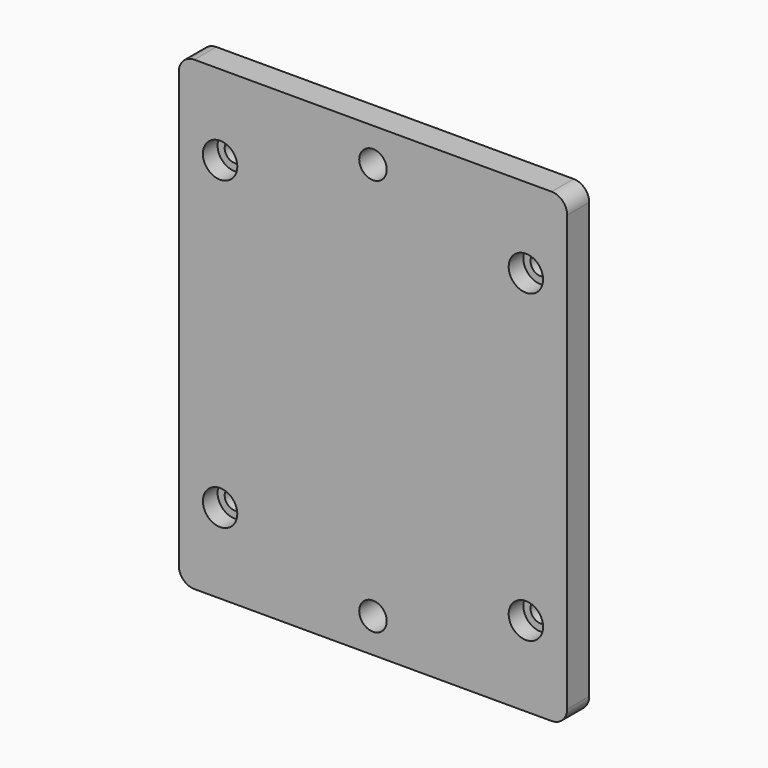
from build123d import *

# Parameters (mm, degrees)
F0_W           = 127
F0_H           = 152.4
F1_DEPTH       = 9
F3_D           = 9
F5_D           = 6.6
F5_CBORE_D     = 11.25
F5_CBORE_DEPTH = 6
F6_R           = 5.08


with BuildPart() as f1:
    # F0 (on Front) → F1 (new body)
    with BuildSketch(Plane.XZ):
        Rectangle(F0_W, F0_H)
    extrude(amount=F1_DEPTH)

    # F3 (through all)
    with Locations(Plane.XZ.offset(9)):
        with Locations((0, 65), (0, -65)):
            Hole(F3_D / 2)

    # F5 (through all)
    with Locations(Plane.XZ.offset(9)):
        with Locations((-50, 50), (50, 50), (50, -50), (-50, -50)):
            CounterBoreHole(F5_D / 2, F5_CBORE_D / 2, F5_CBORE_DEPTH)

    # F6
    f6_edges = [f1.edges().sort_by_distance(p)[0] for p in [
        (63.5, -4.5, 76.2),
        (63.5, -4.5, -76.2),
        (-63.5, -4.5, -76.2),
        (-63.5, -4.5, 76.2),
    ]]
    fillet(f6_edges, radius=F6_R)


solid = f1.part
